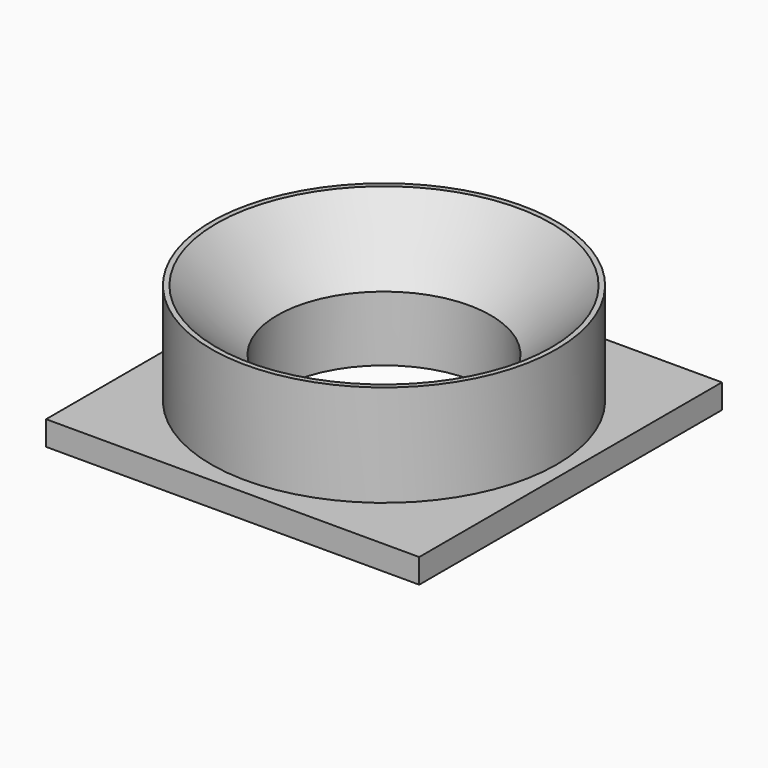
from build123d import *

# Parameters (mm, degrees)
F0_W     = 91.8421666365
F0_H     = 93.1266715601
F0_R     = 26.25
F1_DEPTH = 6
F2_R     = 42.5
F2_R_2   = 26.25
F3_DEPTH = 25
F4_SIZE  = 15


with BuildPart() as f1:
    # F0 (on Top) → F1 (new body)
    with BuildSketch(Plane.XY):
        Rectangle(F0_W, F0_H)
        Circle(F0_R, mode=Mode.SUBTRACT)
    extrude(amount=F1_DEPTH)

    # F2 (on face) → F3 (join)
    with BuildSketch(Plane.XY.offset(6)):
        Circle(F2_R)
        Circle(F2_R_2, mode=Mode.SUBTRACT)
    extrude(amount=F3_DEPTH)

    # F4
    f4_edges = [f1.edges().sort_by_distance(p)[0] for p in [
        (-26.25, 0, 31),
    ]]
    chamfer(f4_edges, length=F4_SIZE)


solid = f1.part
